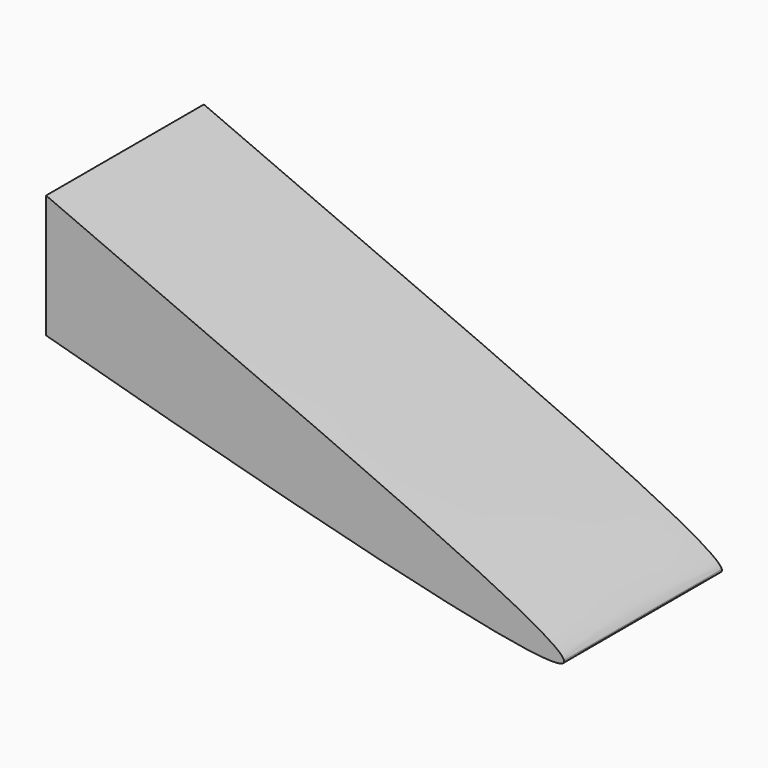
from build123d import *

# Parameters (mm, degrees)
F1_DEPTH = 25.4


with BuildPart() as f1:
    # F0 (on Front) → F1 (new body)
    with BuildSketch(Plane.XZ):
        with BuildLine():
            Line((28.3158868551, 0.2158345612), (28.3158868551, 0))
            add(Edge.make_bspline(
                [(28.3158868551, 0.2158345612), (28.3393760729, 0.1359504749), (28.339589773, 0.0639358739), (28.3158868551, 0)],
                knots=[0.4958862214, 0.4958862214, 0.4958862214, 0.4958862214, 0.5091545666, 0.5091545666, 0.5091545666, 0.5091545666], degree=3))
        make_face()
        with BuildLine():
            add(Edge.make_bspline(
                [(28.3158868551, 0), (27.4390277742, -2.3652257446), (-6.1685657277, 6.3255713055), (-38.3832678199, 15.360776335)],
                knots=[0.5091545666, 0.5091545666, 0.5091545666, 0.5091545666, 1, 1, 1, 1], degree=3))
            Line((28.3158868551, 0), (28.3158868551, 0.2158345612))
            add(Edge.make_bspline(
                [(-38.3832678199, 31.2254577875), (-5.950836298, 17.1789552338), (27.4380095262, 3.2013928226), (28.3158868551, 0.2158345612)],
                knots=[0, 0, 0, 0, 0.4958862214, 0.4958862214, 0.4958862214, 0.4958862214], degree=3))
            Line((-38.3832678199, 31.2254577875), (-38.3832678199, 25.0950045884))
            Line((-38.3832678199, 25.0950045884), (-38.3832678199, 15.360776335))
        make_face()
    extrude(amount=F1_DEPTH)


solid = f1.part
